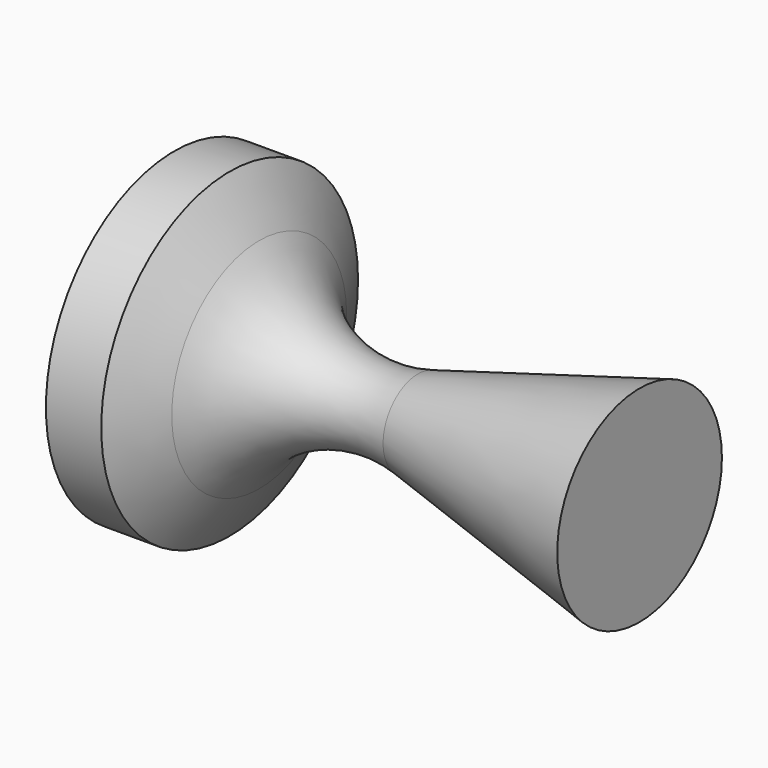
from build123d import *

# Parameters (mm, degrees)
REVOLUTION_FACE4_R = 145
PAD_DEPTH          = 50


with BuildPart() as part:
    # Sketch → Revolution (revolve)
    with BuildSketch(Plane.XY):
        with BuildLine():
            ThreePointArc((-110.418239, 98.75), (-48.792138, 44.70536), (32.999428, 39.344457))
            Line((32.999428, 39.344457), (233.24464, 93))
            Line((233.24464, 93), (233.24464, 0))
            Line((-137.120689, 0), (233.24464, 0))
            Line((-137.120689, 145), (-137.120689, 0))
            Line((-137.120689, 145), (-110.418239, 98.75))
        make_face()
    revolve(axis=Axis((0, 0, 0), (1, 0, 0)))

    # Revolution Face4 → Pad (new)
    with BuildSketch(Plane(origin=(-137.120689, 0, 0), x_dir=(0, 1, 0), z_dir=(-1, 0, 0))):
        Circle(REVOLUTION_FACE4_R)
    extrude(amount=PAD_DEPTH)


solid = part.part
